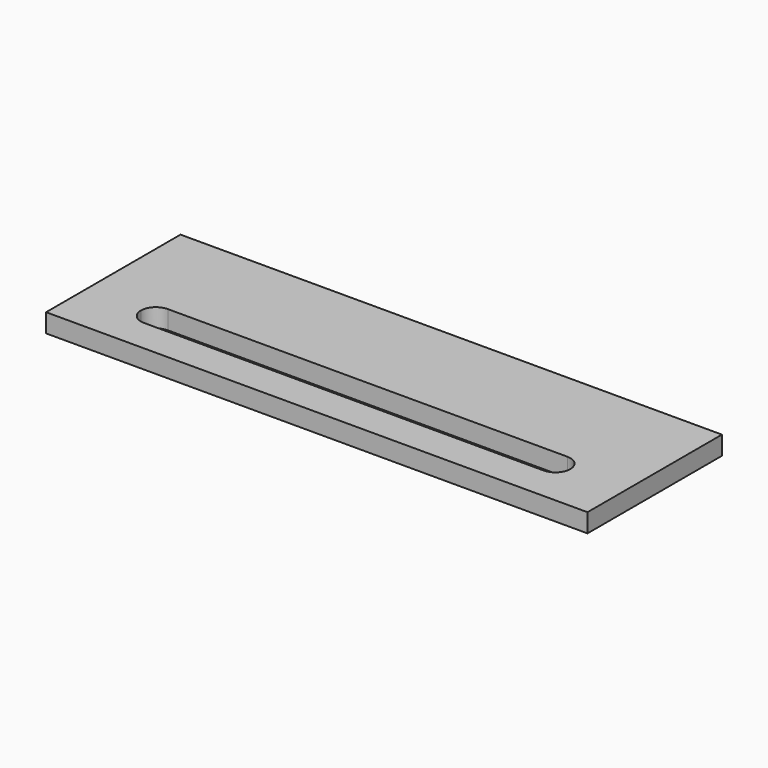
from build123d import *

# Parameters (mm, degrees)
F0_W     = 184.15
F0_H     = 57.15
F1_DEPTH = 6.35


with BuildPart() as f1:
    # F0 (on Top) → F1 (new body)
    with BuildSketch(Plane.XY):
        with Locations((92.075, 28.575)):
            Rectangle(F0_W, F0_H)
        with BuildLine():
            Line((160.02, 11.43), (24.13, 11.43))
            ThreePointArc((24.13, 11.43), (20.537898, 12.917898), (19.05, 16.51))
            ThreePointArc((19.05, 16.51), (20.537898, 20.102102), (24.13, 21.59))
            Line((24.13, 21.59), (160.02, 21.59))
            ThreePointArc((160.02, 21.59), (163.612102, 20.102102), (165.1, 16.51))
            ThreePointArc((165.1, 16.51), (163.612102, 12.917898), (160.02, 11.43))
        make_face(mode=Mode.SUBTRACT)
    extrude(amount=F1_DEPTH)


solid = f1.part
